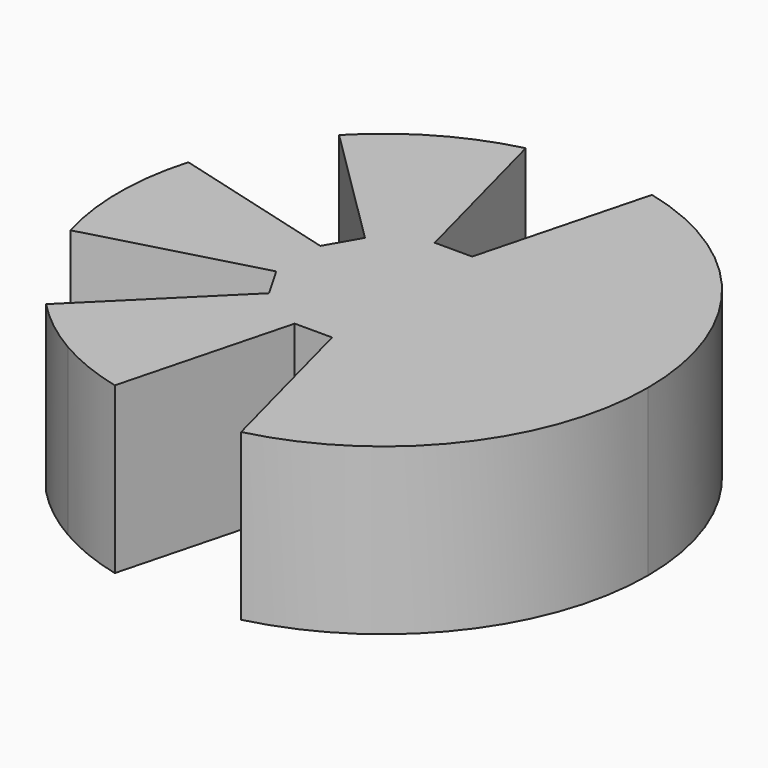
from build123d import *

# Parameters (mm, degrees)
F1_DEPTH = 25


with BuildPart() as f1:
    # F0 (on Top) → F1 (new body)
    with BuildSketch(Plane.XY):
        with BuildLine():
            ThreePointArc((9.552227, -38.842695), (31.48086, -24.677023), (40, 0))
            ThreePointArc((40, 0), (31.48086, 24.677023), (9.552227, 38.842695))
            Line((9.552227, 38.842695), (2.830886, 13.237851))
            Line((2.830886, 13.237851), (0, 13.237851))
            Line((0, 13.237851), (-2.830886, 13.237851))
            Line((-2.830886, 13.237851), (-9.552227, 38.842695))
            ThreePointArc((-9.552227, 38.842695), (-20, 34.641016), (-28.862647, 27.693819))
            Line((-28.862647, 27.693819), (-10.048872, 9.070544))
            Line((-10.048872, 9.070544), (-11.464315, 6.618925))
            Line((-11.464315, 6.618925), (-12.879758, 4.167307))
            Line((-12.879758, 4.167307), (-38.414874, 11.148876))
            ThreePointArc((-38.414874, 11.148876), (-40, 0), (-38.414874, -11.148876))
            Line((-38.414874, -11.148876), (-12.879758, -4.167307))
            Line((-12.879758, -4.167307), (-11.464315, -6.618925))
            Line((-11.464315, -6.618925), (-10.048872, -9.070544))
            Line((-10.048872, -9.070544), (-28.862647, -27.693819))
            ThreePointArc((-28.862647, -27.693819), (-24.677023, -31.48086), (-20, -34.641016))
            ThreePointArc((-20, -34.641016), (-14.924713, -37.111359), (-9.552227, -38.842695))
            Line((-9.552227, -38.842695), (-2.830886, -13.237851))
            Line((-2.830886, -13.237851), (0, -13.237851))
            Line((0, -13.237851), (2.830886, -13.237851))
            Line((2.830886, -13.237851), (9.552227, -38.842695))
        make_face()
    extrude(amount=F1_DEPTH)


solid = f1.part
